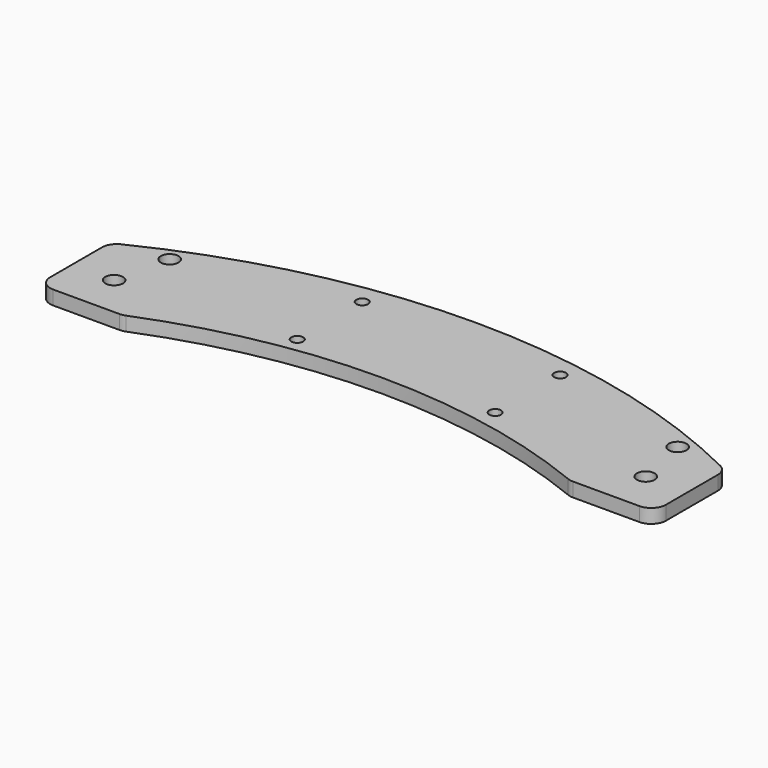
from build123d import *

# Parameters (mm, degrees)
PAD_DEPTH     = 4.763
SKETCH001_R   = 2
SKETCH001_R_2 = 3
POCKET_DEPTH  = 4.764
FILLET_R      = 5


with BuildPart() as part:
    # Sketch → Pad (new body)
    with BuildSketch(Plane.XY):
        with BuildLine():
            ThreePointArc((75.749521, 0), (0, 14.9), (-75.749521, 0))
            Line((-104.25, 0), (-75.749521, 0))
            Line((-104.25, 0), (-104.25, 30.01692))
            ThreePointArc((104.25, 30.01692), (0, 55), (-104.25, 30.01692))
            Line((104.25, 30.01692), (104.25, 0))
            Line((75.749521, 0), (104.25, 0))
        make_face()
    extrude(amount=PAD_DEPTH)

    # Sketch001 → Pocket (cut, through all)
    with BuildSketch(Plane.XY.offset(4.763)):
        with Locations((-31, 45.5)):
            Circle(SKETCH001_R)
        with Locations((36, 45.5)):
            Circle(SKETCH001_R)
        with Locations((36, 18)):
            Circle(SKETCH001_R)
        with Locations((-31, 18)):
            Circle(SKETCH001_R)
        with Locations((-90, 14.25)):
            Circle(SKETCH001_R_2)
        with Locations((-86, 32.75)):
            Circle(SKETCH001_R_2)
        with Locations((86, 32.75)):
            Circle(SKETCH001_R_2)
        with Locations((90, 14.25)):
            Circle(SKETCH001_R_2)
    extrude(amount=-POCKET_DEPTH, mode=Mode.SUBTRACT)

    # Fillet
    fillet_edges = [part.edges().sort_by_distance(p)[0] for p in [
        (-104.25, 30.01692, 2.3815),
        (-104.25, 0, 2.3815),
        (104.25, 30.01692, 2.3815),
        (-75.749521, 0, 2.3815),
        (75.749521, 0, 2.3815),
        (104.25, 0, 2.3815),
    ]]
    fillet(fillet_edges, radius=FILLET_R)


solid = part.part
